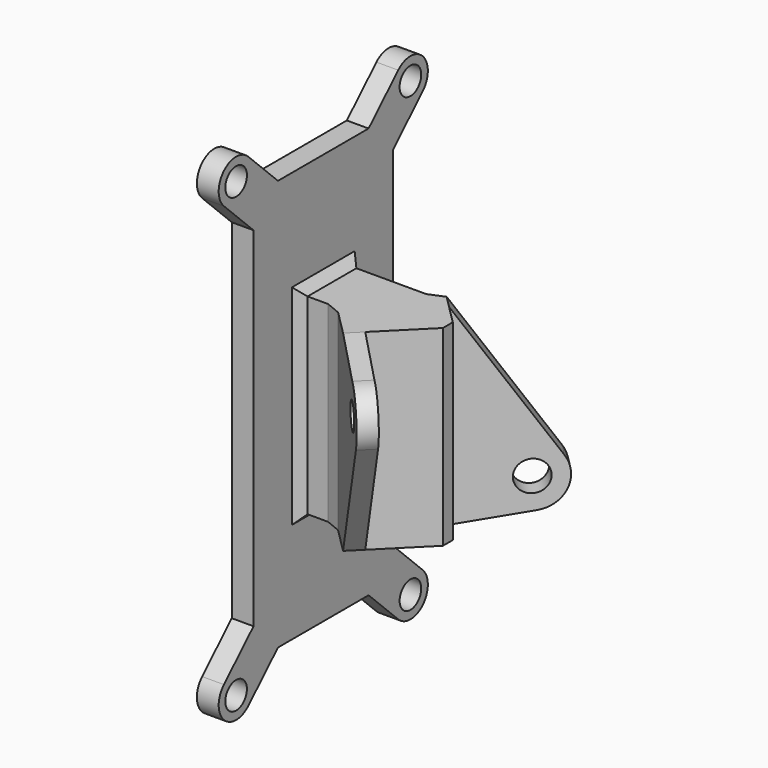
from build123d import *

# Parameters (mm, degrees)
SKETCH170_R     = 1.55
PAD089_DEPTH    = 2.5
PAD090_DEPTH    = 11
SKETCH172_R     = 1.5
POCKET066_DEPTH = 5
SKETCH_R        = 1.75
POCKET_DEPTH    = 5
CHAMFER_SIZE    = 1


with BuildPart() as part:
    # Sketch170 → Pad089 (new body)
    with BuildSketch(Plane.YZ):
        with BuildLine():
            ThreePointArc((-10.7502555542, 27.7356075645), (-14.2856053806, 27.6997466745), (-14.2497489032, 24.1643968034))
            Line((-14.2497489032, 24.1643968034), (-10, 20))
            Line((-10, 20), (-10, 0))
            Line((-10, -20), (-10, 0))
            Line((-14.2497550835, -24.1644028597), (-10, -20))
            ThreePointArc((-14.2497550835, -24.1644028597), (-14.2855992835, -27.6997528965), (-10.7502492905, -27.7356014266))
            Line((-10.7502492905, -27.7356014266), (-6.5005101735, -23.5712142128))
            Line((-6.5005101735, -23.5712142128), (6.5005101735, -23.5712142128))
            Line((10.7502488005, -27.7356009464), (6.5005101735, -23.5712142128))
            ThreePointArc((10.7502488005, -27.7356009464), (14.2856010292, -27.699751115), (14.2497510305, -24.164398888))
            Line((14.2497510305, -24.164398888), (10, -20))
            Line((10, -20), (10, 0))
            Line((10, 20), (10, 0))
            Line((14.2497448501, 24.1643928317), (10, 20))
            ThreePointArc((14.2497448501, 24.1643928317), (14.2856070566, 27.6997449641), (10.7502549219, 27.7356069449))
            Line((10.7502549219, 27.7356069449), (6.5005101735, 23.5712142128))
            Line((6.5005101735, 23.5712142128), (0, 23.5712142128))
            Line((-6.5005101735, 23.5712142128), (0, 23.5712142128))
            Line((-10.7502555542, 27.7356075645), (-6.5005101735, 23.5712142128))
        make_face()
        with Locations((-12.5, 25.95)):
            Circle(SKETCH170_R, mode=Mode.SUBTRACT)
        with Locations((12.5, 25.95)):
            Circle(SKETCH170_R, mode=Mode.SUBTRACT)
        with Locations((-12.5, -25.95)):
            Circle(SKETCH170_R, mode=Mode.SUBTRACT)
        with Locations((12.5, -25.95)):
            Circle(SKETCH170_R, mode=Mode.SUBTRACT)
    extrude(amount=PAD089_DEPTH)

    # Sketch171 (on DatumPlane) → Pad090 (join, symmetric)
    with BuildSketch(Plane(origin=(2.5, 0, 0), x_dir=(0, 1, 0), z_dir=(0, 0, -1))):
        Polygon((-13.4350288425, 17.1213203436), (-14.8492424049, 15.7071067812), (-3.5, 4.3578643763), (-3.5, 0), (3.5, 0), (3.5, 10.0147186258), (12.0208152802, 18.5355339059), (10.6066017178, 19.9497474683), (2.8284271247, 12.1715728753), (0, 15), (-5.6568542495, 9.3431457505), align=None)
    extrude(amount=PAD090_DEPTH, both=True)

    # Sketch172 (on Face30 of Pad090) → Pocket066 (cut)
    with BuildSketch(Plane(origin=(1.6789321881, 1.6789321881, 0), x_dir=(-0.7071067812, 0.7071067812, 0), z_dir=(-0.7071067812, -0.7071067812, 0))):
        with Locations((-19.8743686708, -6.5)):
            Circle(SKETCH172_R)
        with BuildLine():
            ThreePointArc((-22.7830913882, -4.5533792991), (-22.9517672177, -8.1672186969), (-19.8324532872, -9.9997490054))
            Line((-19.8324532872, -9.9997490054), (-12.3743686708, -11))
            Line((-12.3743686708, -11), (-12.3743686708, -12))
            Line((-12.3743686708, -12), (-25.675823, -12))
            Line((-25.675823, -12), (-25.675823, 11.874653))
            Line((-25.675823, 11.874653), (-12.3743686708, 11.874653))
            Line((-12.3743686708, 11.874653), (-12.3743686708, 11))
            Line((-12.3743686708, 11), (-22.7830913882, -4.5533792991))
        make_face()
    extrude(amount=-POCKET066_DEPTH, mode=Mode.SUBTRACT)

    # Sketch (on Face33 of Pocket066) → Pocket (cut)
    with BuildSketch(Plane(origin=(5.9215728753, -5.9215728753, 0), x_dir=(0, 0, -1), z_dir=(0.7071067812, -0.7071067812, 0))):
        with Locations((6.5, 19.8743686708)):
            Circle(SKETCH_R)
        with BuildLine():
            Line((9.9710425685, 20.3236608785), (11, 12.3743686708))
            Line((11, 12.3743686708), (13.188866, 12.3743686708))
            Line((13.188866, 12.3743686708), (13.237601, 26.90383))
            Line((13.237601, 26.90383), (-12.122474, 26.90383))
            Line((-12.122474, 26.90383), (-12.122474, 12.372268))
            Line((-12.122474, 12.372268), (-11, 12.3743686708))
            Line((-11, 12.3743686708), (4.5533989217, 22.7831045202))
            ThreePointArc((9.9710425685, 20.3236608785), (7.9467882433, 23.0613427496), (4.5533989217, 22.7831045202))
        make_face()
    extrude(amount=-POCKET_DEPTH, mode=Mode.SUBTRACT)

    # Chamfer
    chamfer_edges = [part.edges().sort_by_distance(p)[0] for p in [
        (2.5, 0, -11),
        (2.5, 3.5, 0),
        (2.5, -3.5, 0),
        (2.5, 0, 11),
        (6.857864, -3.5, 0),
        (12.514719, 3.5, 0),
        (17.5, 0, 0),
    ]]
    chamfer(chamfer_edges, length=CHAMFER_SIZE)


solid = part.part
